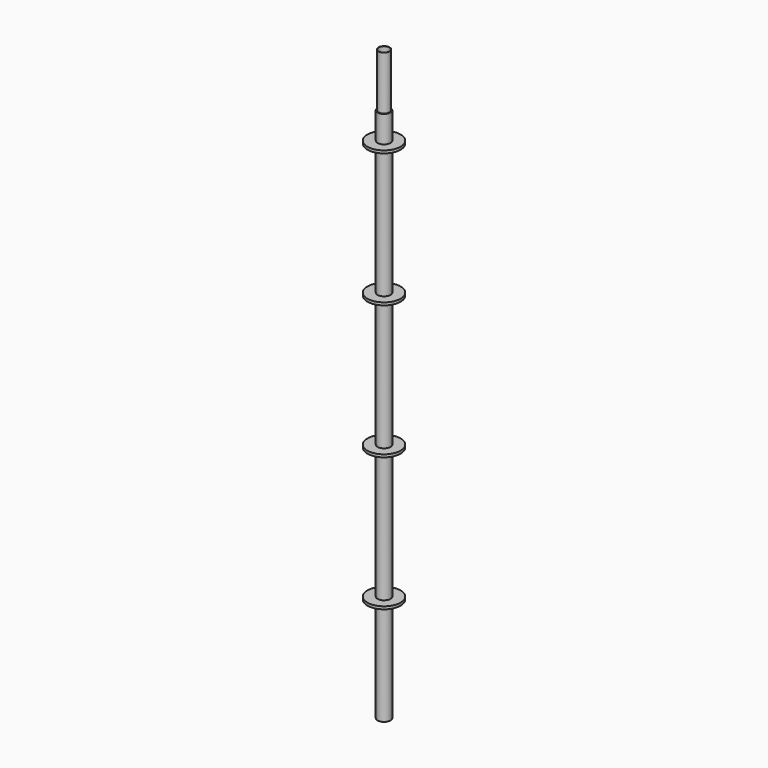
from build123d import *

# Parameters (mm, degrees)
F2_W = 62
F2_H = 10


with BuildPart() as f1:
    # F0 (on Front) → F1 (revolve)
    with BuildSketch(Plane.XZ):
        Polygon((20, 400), (20, 0), (24.15, 0), (24.15, 2000), (21, 2000), (21, 2200), (20, 2200), (20, 1501.37949), align=None)
    revolve(axis=Axis((0, 0, 1100), (0, 0, 1)))

    # F2 (on Front) → F3 (revolve)
    with BuildSketch(Plane.XZ):
        with Locations((31, 395)):
            Rectangle(F2_W, F2_H)
        with Locations((31, 895)):
            Rectangle(F2_W, F2_H)
        with Locations((31, 1395)):
            Rectangle(F2_W, F2_H)
        with Locations((31, 1895)):
            Rectangle(F2_W, F2_H)
    revolve(axis=Axis((0, 0, 197.5), (0, 0, 1)))


solid = f1.part
